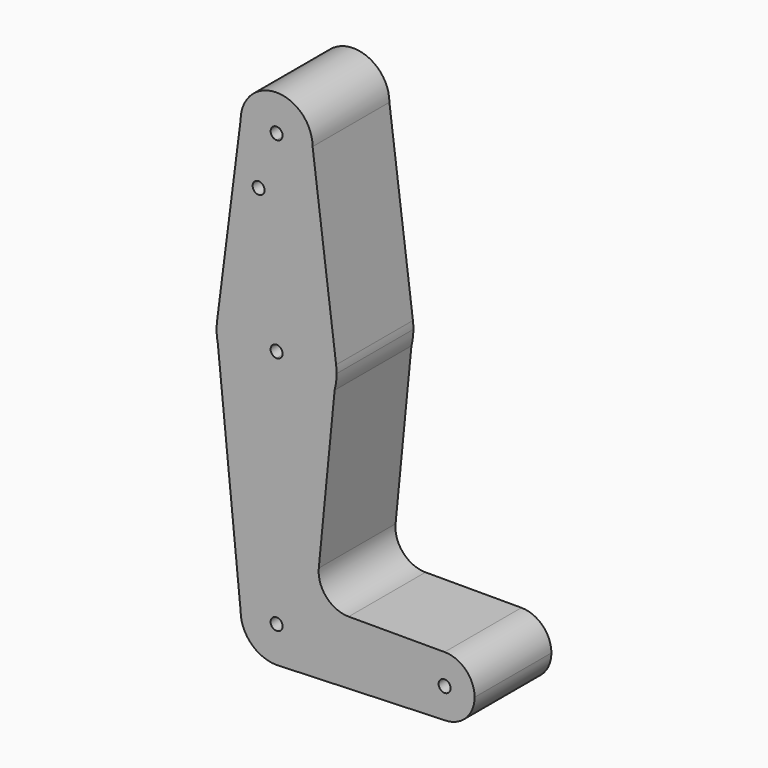
from build123d import *

# Parameters (mm, degrees)
F0_R     = 1.5875
F1_DEPTH = 25.4


with BuildPart() as f1:
    # F0 (on Front) → F1 (new body)
    with BuildSketch(Plane.XZ):
        with BuildLine():
            Line((9.525, 0), (1.5875, 0))
            ThreePointArc((1.5875, 0), (-1.1225320151, -1.1225320151), (0, 1.5875))
            Line((0, 1.5875), (0, 9.525))
            ThreePointArc((0, 9.525), (-6.7351920908, 6.7351920908), (-9.525, 0))
            ThreePointArc((-9.525, 0), (-6.7351920908, -6.7351920908), (0, -9.525))
            Line((0, -9.525), (0.6794904459, -9.5007324841))
            ThreePointArc((0.6794904459, -9.5007324841), (6.9712901065, -6.4905114784), (9.525, 0))
        make_face()
        with BuildLine():
            ThreePointArc((0, 9.525), (6.7351920908, 6.7351920908), (9.525, 0))
            Line((9.525, 0), (36.5125, 0))
            ThreePointArc((36.5125, 0), (38.8373399243, 5.6126600757), (44.45, 7.9375))
            Line((44.45, 7.9375), (19.0701377213, 7.9375))
            ThreePointArc((19.0701377213, 7.9375), (13.1807501467, 10.5472136892), (11.1578352079, 16.6630379749))
            Line((11.1578352079, 16.6630379749), (15.3511220626, 59.4554139373))
            ThreePointArc((15.3511220626, 59.4554139373), (9.6904030168, 50.9257519361), (0, 47.625))
            Line((0, 47.625), (0, 9.525))
        make_face()
        with BuildLine():
            Line((36.5125, 0), (9.525, 0))
            ThreePointArc((9.525, 0), (6.9712901065, -6.4905114784), (0.6794904459, -9.5007324841))
            Line((0.6794904459, -9.5007324841), (44.45, -7.9375))
            ThreePointArc((44.45, -7.9375), (38.8373399243, -5.6126600757), (36.5125, 0))
        make_face()
        with BuildLine():
            ThreePointArc((-9.525, 0), (-6.7351920908, 6.7351920908), (0, 9.525))
            Line((0, 9.525), (0, 47.625))
            ThreePointArc((0, 47.625), (-10.0526499203, 51.2134278751), (-15.5606435644, 60.3564356436))
            Line((-15.5606435644, 60.3564356436), (-9.525, 0))
        make_face()
        with BuildLine():
            ThreePointArc((44.45, 7.9375), (38.8373399243, 5.6126600757), (36.5125, 0))
            ThreePointArc((36.5125, 0), (38.8373399243, -5.6126600757), (44.45, -7.9375))
            ThreePointArc((44.45, -7.9375), (50.0626600757, -5.6126600757), (52.3875, 0))
            ThreePointArc((52.3875, 0), (50.0626600757, 5.6126600757), (44.45, 7.9375))
        make_face()
        with BuildLine():
            ThreePointArc((46.0375, 0), (44.45, -1.5875), (42.8625, 0))
            ThreePointArc((42.8625, 0), (44.45, 1.5875), (46.0375, 0))
        make_face(mode=Mode.SUBTRACT)
        with BuildLine():
            ThreePointArc((0, -9.525), (0.3399618281, -9.5189311877), (0.6794904459, -9.5007324841))
            Line((0.6794904459, -9.5007324841), (0, -9.525))
        make_face()
        with BuildLine():
            Line((0, 61.9125), (0, 47.625))
            ThreePointArc((0, 47.625), (9.6904030168, 50.9257519361), (15.3511220626, 59.4554139373))
            ThreePointArc((15.3511220626, 59.4554139373), (15.7434857599, 61.4608136113), (15.875, 63.5))
            ThreePointArc((15.875, 63.5), (15.8430821396, 64.5061676396), (15.7474569047, 65.5082893304))
            ThreePointArc((15.7474569047, 65.5082893304), (10.4912828548, 75.4142187767), (0, 79.375))
            Line((0, 79.375), (0, 65.0875))
            ThreePointArc((0, 65.0875), (1.1225320151, 64.6225320151), (1.5875, 63.5))
            ThreePointArc((1.5875, 63.5), (1.1225320151, 62.3774679849), (0, 61.9125))
        make_face()
        with BuildLine():
            ThreePointArc((-15.5606435644, 60.3564356436), (-10.0526499203, 51.2134278751), (0, 47.625))
            Line((0, 47.625), (0, 61.9125))
            ThreePointArc((0, 61.9125), (-1.5875, 63.5), (0, 65.0875))
            Line((0, 65.0875), (0, 79.375))
            ThreePointArc((0, 79.375), (-10.4912828548, 75.4142187767), (-15.7474569047, 65.5082893304))
            ThreePointArc((-15.7474569047, 65.5082893304), (-15.8430821396, 64.5061676396), (-15.875, 63.5))
            Line((-15.875, 63.5), (-15.5606435644, 60.3564356436))
        make_face()
        with BuildLine():
            ThreePointArc((-15.875, 63.5), (-15.7962153946, 61.9203784605), (-15.5606435644, 60.3564356436))
            Line((-15.5606435644, 60.3564356436), (-15.875, 63.5))
        make_face()
        with BuildLine():
            Line((-9.525, 114.3), (-15.7474569047, 65.5082893304))
            ThreePointArc((-15.7474569047, 65.5082893304), (-10.4912828548, 75.4142187767), (0, 79.375))
            Line((0, 79.375), (0, 104.775))
            ThreePointArc((0, 104.775), (-6.7351920908, 107.5648079092), (-9.525, 114.3))
        make_face()
        with Locations((-4.7590420581, 100.0252)):
            Circle(F0_R, mode=Mode.SUBTRACT)
        with BuildLine():
            ThreePointArc((0, 79.375), (10.4912828548, 75.4142187767), (15.7474569047, 65.5082893304))
            Line((15.7474569047, 65.5082893304), (9.525, 114.3))
            ThreePointArc((9.525, 114.3), (6.7351920908, 107.5648079092), (0, 104.775))
            Line((0, 104.775), (0, 79.375))
        make_face()
        with BuildLine():
            ThreePointArc((9.525, 114.3), (0, 123.825), (-9.525, 114.3))
            ThreePointArc((-9.525, 114.3), (-6.7351920908, 107.5648079092), (0, 104.775))
            ThreePointArc((0, 104.775), (6.7351920908, 107.5648079092), (9.525, 114.3))
        make_face()
        with BuildLine():
            ThreePointArc((1.5875, 114.3), (1.1225320151, 113.1774679849), (0, 112.7125))
            ThreePointArc((0, 112.7125), (-1.1225320151, 115.4225320151), (1.5875, 114.3))
        make_face(mode=Mode.SUBTRACT)
        with BuildLine():
            ThreePointArc((0, 1.5875), (1.1225320151, 1.1225320151), (1.5875, 0))
            Line((1.5875, 0), (9.525, 0))
            ThreePointArc((9.525, 0), (6.7351920908, 6.7351920908), (0, 9.525))
            Line((0, 9.525), (0, 1.5875))
        make_face()
    extrude(amount=F1_DEPTH)


solid = f1.part
